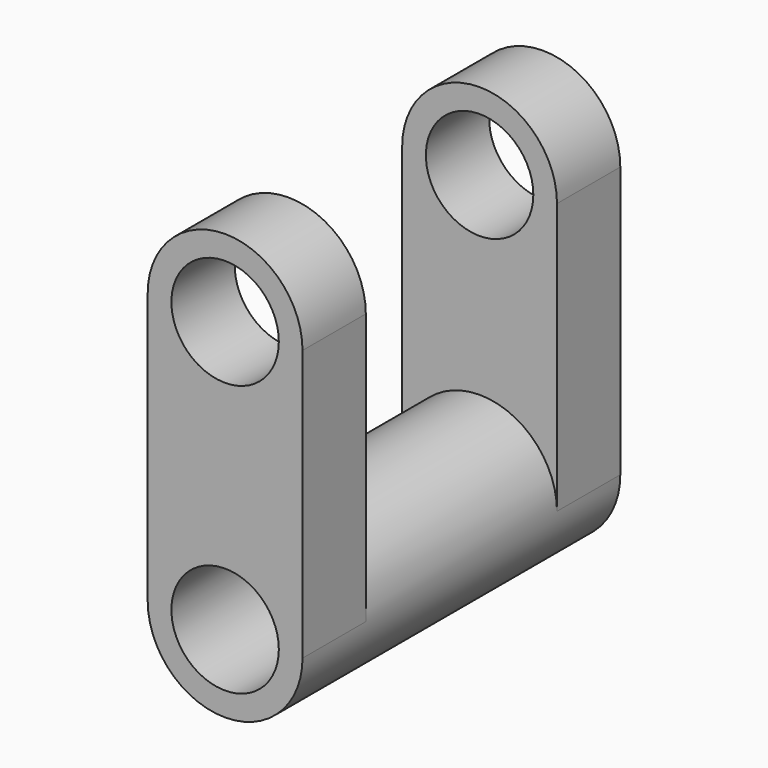
from build123d import *

# Parameters (mm, degrees)
F0_R     = 17.243365
F1_DEPTH = 25.4
F2_DEPTH = 38.354


with BuildPart() as f1:
    # F0 (on Front) → F1 (new body)
    with BuildSketch(Plane.XZ):
        with BuildLine():
            ThreePointArc((29.55677, -59.970262), (4.711947, -35.125439), (-20.132875, -59.970262))
            ThreePointArc((-20.132875, -59.970262), (4.711947, -84.815084), (29.55677, -59.970262))
        make_face()
        with Locations((4.711947, -59.970262)):
            Circle(F0_R, mode=Mode.SUBTRACT)
        with BuildLine():
            ThreePointArc((29.55677, 26.986618), (4.711947, 2.141795), (-20.132875, 26.986618))
            Line((-20.132875, 26.986618), (-20.132875, -59.970262))
            ThreePointArc((-20.132875, -59.970262), (4.711947, -35.125439), (29.55677, -59.970262))
            Line((29.55677, -59.970262), (29.55677, 26.986618))
        make_face()
        with BuildLine():
            ThreePointArc((29.55677, 26.986618), (4.711947, 51.83144), (-20.132875, 26.986618))
            ThreePointArc((-20.132875, 26.986618), (4.711947, 2.141795), (29.55677, 26.986618))
        make_face()
        with Locations((4.711947, 26.986618)):
            Circle(F0_R, mode=Mode.SUBTRACT)
    extrude(amount=-F1_DEPTH)

    # F0 (on Front) → F2 (join)
    with BuildSketch(Plane.XZ):
        with BuildLine():
            ThreePointArc((29.55677, -59.970262), (4.711947, -35.125439), (-20.132875, -59.970262))
            ThreePointArc((-20.132875, -59.970262), (4.711947, -84.815084), (29.55677, -59.970262))
        make_face()
        with Locations((4.711947, -59.970262)):
            Circle(F0_R, mode=Mode.SUBTRACT)
    extrude(amount=F2_DEPTH)

    # F3: F1 across face


with BuildPart() as f1_1:
    add(f1.part)
    add(f1.part.mirror(Plane(origin=(4.711947, -38.354, -59.970262), x_dir=(1, 0, 0), z_dir=(0, -1, 0))))


solid = f1_1.part
